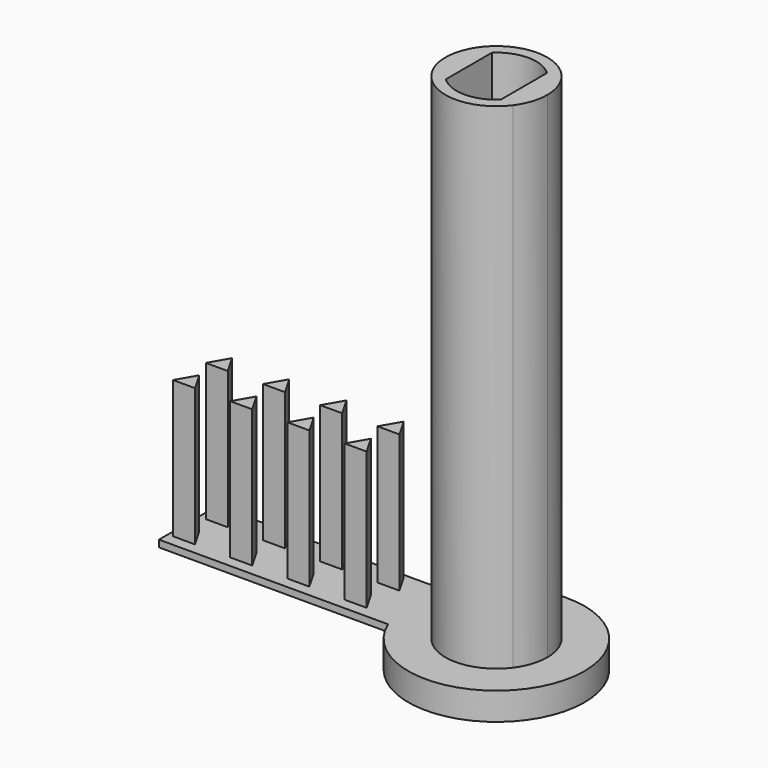
from build123d import *

# Parameters (mm, degrees)
F1_DEPTH = 48.26
F2_DEPTH = 25.4
F3_R     = 8.133276
F4_DEPTH = 2.54
F5_W     = 25.4
F5_H     = 6.734311
F6_DEPTH = 0.635
F8_DEPTH = 12.7


with BuildPart() as f1:
    # F0 (on Top) → F1 (new body)
    with BuildSketch(Plane.XY):
        with BuildLine():
            Line((-2.54, -2.805053), (-3.769917, -2.805053))
            ThreePointArc((-3.769917, -2.805053), (-0.00142, -4.699), (3.768222, -2.807331))
            Line((3.768222, -2.807331), (2.54, -2.807331))
            Line((2.54, -2.807331), (2.54, -2.667))
            ThreePointArc((2.54, -2.667), (0, -3.683), (-2.54, -2.667))
            Line((-2.54, -2.667), (-2.54, -2.805053))
        make_face()
        with BuildLine():
            Line((2.54, 0), (2.54, -2.667))
            ThreePointArc((2.54, -2.667), (3.385211, -1.450805), (3.683, 0))
            ThreePointArc((3.683, 0), (3.385211, 1.450805), (2.54, 2.667))
            Line((2.54, 2.667), (2.54, 0))
        make_face()
        with BuildLine():
            Line((2.54, -2.807331), (3.768222, -2.807331))
            Line((3.768222, -2.807331), (3.768222, 2.667))
            Line((3.768222, 2.667), (2.54, 2.667))
            ThreePointArc((2.54, 2.667), (3.385211, 1.450805), (3.683, 0))
            ThreePointArc((3.683, 0), (3.385211, -1.450805), (2.54, -2.667))
            Line((2.54, -2.667), (2.54, -2.807331))
        make_face()
        with BuildLine():
            ThreePointArc((3.768222, -2.807331), (4.46024, -1.478805), (4.699, 0))
            ThreePointArc((4.699, 0), (-1.477457, 4.460686), (-3.769917, -2.805053))
            Line((-3.769917, -2.805053), (-3.769917, 2.667))
            Line((-3.769917, 2.667), (-2.54, 2.667))
            ThreePointArc((-2.54, 2.667), (0, 3.683), (2.54, 2.667))
            Line((2.54, 2.667), (3.768222, 2.667))
            Line((3.768222, 2.667), (3.768222, -2.807331))
        make_face()
        with BuildLine():
            Line((-3.769917, 2.667), (-3.769917, -2.805053))
            Line((-3.769917, -2.805053), (-2.54, -2.805053))
            Line((-2.54, -2.805053), (-2.54, -2.667))
            ThreePointArc((-2.54, -2.667), (-3.683, 0), (-2.54, 2.667))
            Line((-2.54, 2.667), (-3.769917, 2.667))
        make_face()
        with BuildLine():
            ThreePointArc((-2.54, 2.667), (-3.683, 0), (-2.54, -2.667))
            Line((-2.54, -2.667), (-2.54, 0))
            Line((-2.54, 0), (-2.54, 2.667))
        make_face()
    extrude(amount=F1_DEPTH)

    # F0 (on Top) → F2 (join)
    with BuildSketch(Plane.XY):
        with BuildLine():
            Line((-2.54, 0), (-2.54, -2.667))
            ThreePointArc((-2.54, -2.667), (0, -3.683), (2.54, -2.667))
            Line((2.54, -2.667), (2.54, 0))
            Line((2.54, 0), (0, 0))
            Line((0, 0), (-2.54, 0))
        make_face()
        with BuildLine():
            ThreePointArc((2.54, 2.667), (0, 3.683), (-2.54, 2.667))
            Line((-2.54, 2.667), (-2.54, 0))
            Line((-2.54, 0), (0, 0))
            Line((0, 0), (2.54, 0))
            Line((2.54, 0), (2.54, 2.667))
        make_face()
    extrude(amount=F2_DEPTH)

    # F3 (on Top) → F4 (join)
    with BuildSketch(Plane.XY):
        Circle(F3_R)
    extrude(amount=F4_DEPTH)

    # F5 (on face) → F6 (join)
    with BuildSketch(Plane.XY.offset(2.54)):
        with Locations((-15.95207, 0.237246)):
            Rectangle(F5_W, F5_H)
    extrude(amount=-F6_DEPTH)

    # F7 (on face) → F8 (join)
    with BuildSketch(Plane.XY.offset(2.54)):
        Polygon((-27.00107, 3.238266), (-28.01707, 1.478502), (-25.98507, 1.478502), align=None)
        Polygon((-22.73387, 1.478502), (-20.70187, 1.478502), (-21.71787, 3.238266), align=None)
        Polygon((-17.45067, 1.478502), (-15.41867, 1.478502), (-16.43467, 3.238266), align=None)
        Polygon((-12.16747, 1.478502), (-10.13547, 1.478502), (-11.15147, 3.238266), align=None)
        Polygon((-27.174182, -0.329896), (-28.190182, -2.089659), (-26.158182, -2.089659), align=None)
        Polygon((-22.906982, -2.089659), (-20.874982, -2.089659), (-21.890982, -0.329896), align=None)
        Polygon((-17.623782, -2.089659), (-15.591782, -2.089659), (-16.607782, -0.329896), align=None)
        Polygon((-12.340582, -2.089659), (-10.308582, -2.089659), (-11.324582, -0.329896), align=None)
    extrude(amount=F8_DEPTH)


solid = f1.part
